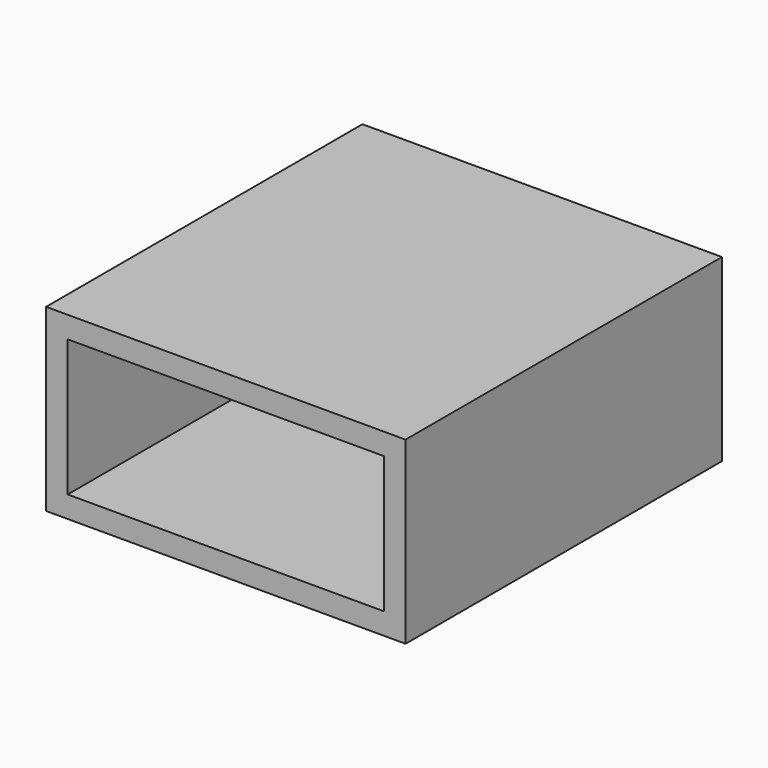
from build123d import *

# Parameters (mm, degrees)
F0_W     = 200
F0_H     = 100
F1_DEPTH = 220
F2_T     = -12


with BuildPart() as f1:
    # F0 (on Front) → F1 (new body)
    with BuildSketch(Plane.XZ):
        Rectangle(F0_W, F0_H)
    extrude(amount=-F1_DEPTH)

    # F2
    f2_openings = [f1.faces().sort_by_distance(p)[0] for p in [
        (0, 0, 0),
    ]]
    offset(amount=F2_T, openings=f2_openings)


solid = f1.part
